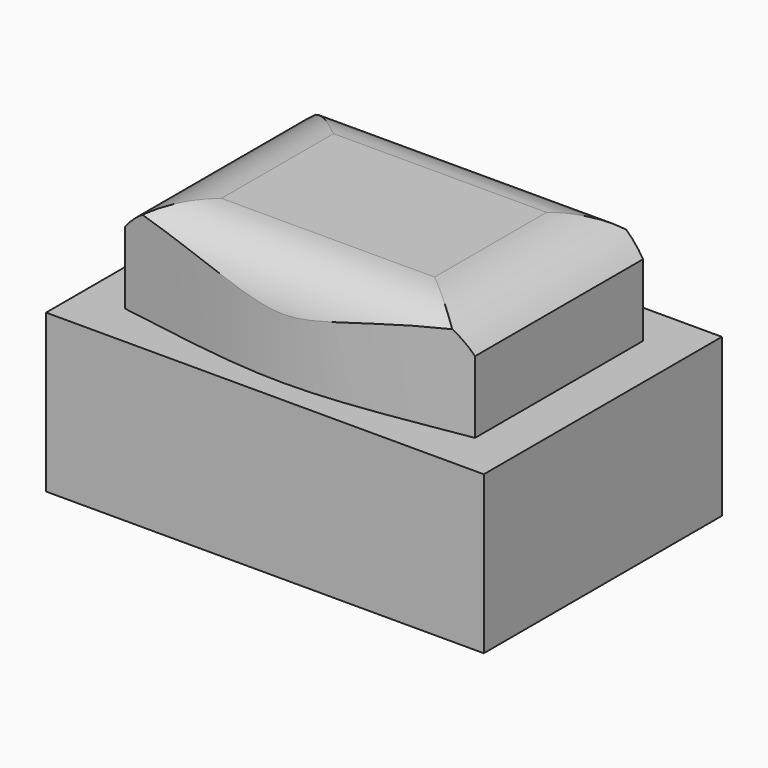
from build123d import *

# Parameters (mm, degrees)
F0_W     = 12.5
F0_H     = 8.5
F1_DEPTH = 4.5
F3_DEPTH = 3
F5_DEPTH = 12.5
F7_DEPTH = 12.5


with BuildPart() as f1:
    # F0 (on Top) → F1 (new body)
    with BuildSketch(Plane.XY):
        Rectangle(F0_W, F0_H)
    extrude(amount=F1_DEPTH)

    # F2 (on face) → F3 (join)
    with BuildSketch(Plane.XY.offset(4.5)):
        with BuildLine():
            add(Edge.make_bspline(
                [(-5, 3), (-3.3333333333, 3.2975326627), (0, 3.9024673373), (3.3333333333, 3.2975326627), (5, 3)],
                knots=[0, 0, 0, 0, 0.5, 1, 1, 1, 1], degree=3))
            Line((-5, 3), (-5, -3))
            add(Edge.make_bspline(
                [(-5, -3), (-3.3333333333, -3.2644556938), (0, -3.9355443062), (3.3333333333, -3.2644556938), (5, -3)],
                knots=[0, 0, 0, 0, 0.5, 1, 1, 1, 1], degree=3))
            Line((5, -3), (5, 3))
        make_face()
    extrude(amount=F3_DEPTH)

    # F4 (on Front) → F5 (cut, symmetric)
    with BuildSketch(Plane.XZ):
        with BuildLine():
            Line((5.0418378521, 7.7276835956), (-5.0418378521, 7.7276835956))
            Line((-5.0418378521, 7.7276835956), (-5.0418378521, 6.5))
            ThreePointArc((-5.0418378521, 6.5), (-4.1598718408, 7.2360679775), (-3.0418378521, 7.5))
            Line((-3.0418378521, 7.5), (3.0418378521, 7.5))
            ThreePointArc((3.0418378521, 7.5), (4.1598718408, 7.2360679775), (5.0418378521, 6.5))
            Line((5.0418378521, 6.5), (5.0418378521, 7.7276835956))
        make_face()
    extrude(amount=F5_DEPTH, both=True, mode=Mode.SUBTRACT)

    # F6 (on Right) → F7 (cut, symmetric)
    with BuildSketch(Plane.YZ):
        with BuildLine():
            Line((3.6354335025, 6), (3.6354335025, 7.9630231485))
            Line((3.6354335025, 7.9630231485), (-3.6354335025, 7.9630231485))
            Line((-3.6354335025, 7.9630231485), (-3.6354335025, 6))
            ThreePointArc((-3.6354335025, 6), (-3.1095768046, 7.0682118062), (-2, 7.5))
            Line((-2, 7.5), (2, 7.5))
            ThreePointArc((2, 7.5), (3.1095768046, 7.0682118062), (3.6354335025, 6))
        make_face()
    extrude(amount=F7_DEPTH, both=True, mode=Mode.SUBTRACT)


solid = f1.part
